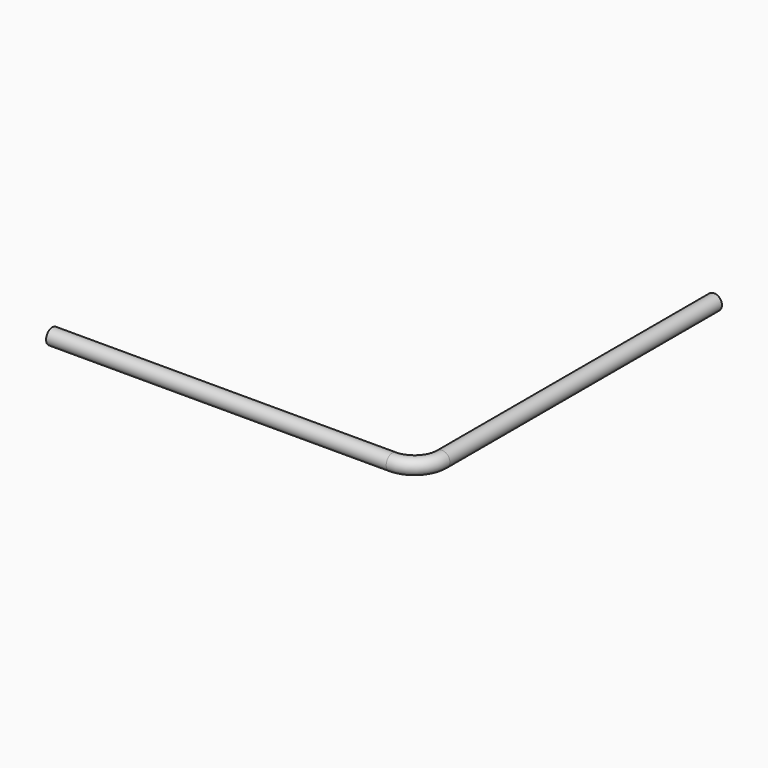
from build123d import *

# Parameters (mm, degrees)
F1_R = 21.2


with BuildPart() as f2:
    # F2: sweep along a path in F0
    with BuildLine(Plane.XY) as f2_path:
        Line((0, 0), (925, 0))
        ThreePointArc((925, 0), (978.033009, 21.966991), (1000, 75))
        Line((1000, 75), (1000, 1000))
    # F1 (on Right) → F2 (sweep)
    with BuildSketch(Plane.YZ):
        Circle(F1_R)
    sweep(path=f2_path.line)


solid = f2.part
